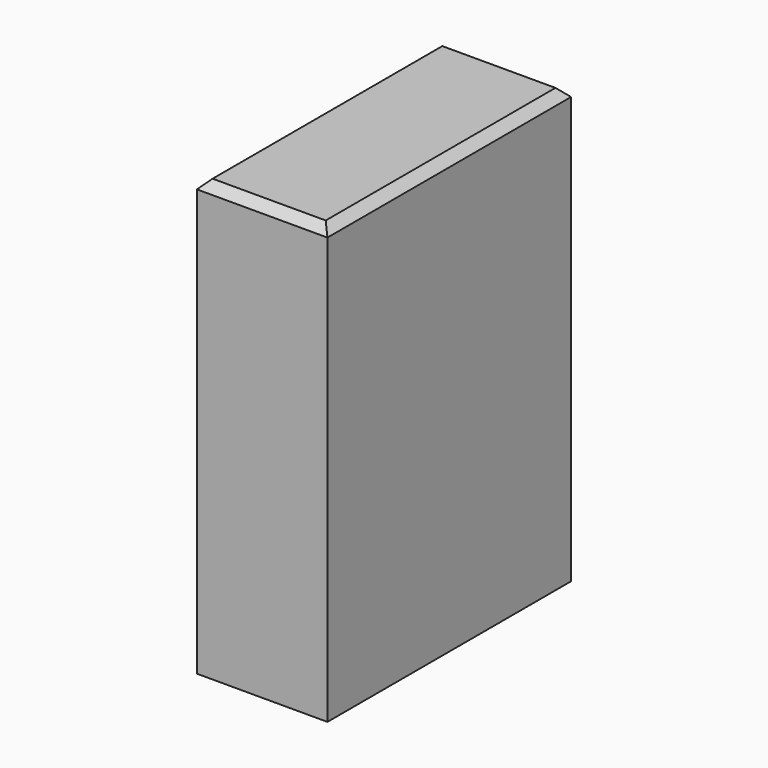
from build123d import *

# Parameters (mm, degrees)
F0_W     = 30
F0_H     = 100
F1_DEPTH = 70
F2_R     = 2.446969
F3_DEPTH = 15
F4_SIZE  = 2


with BuildPart() as f1:
    # F0 (on Front) → F1 (new body)
    with BuildSketch(Plane.XZ):
        with Locations((4.792286, 3.770108)):
            Rectangle(F0_W, F0_H)
    extrude(amount=F1_DEPTH)

    # F2 (on face) → F3 (cut)
    with BuildSketch(Plane(origin=(0, 0, -46.229892), x_dir=(1, 0, 0), z_dir=(0, 0, -1))):
        with Locations((4.792286, 60)):
            Circle(F2_R)
        with Locations((4.792286, 10)):
            Circle(F2_R)
    extrude(amount=-F3_DEPTH, mode=Mode.SUBTRACT)

    # F4
    f4_edges = [f1.edges().sort_by_distance(p)[0] for p in [
        (4.792286, -70, 53.770108),
        (19.792286, -35, 53.770108),
        (4.792286, 0, 53.770108),
        (-10.207714, -35, 53.770108),
    ]]
    chamfer(f4_edges, length=F4_SIZE)


solid = f1.part
